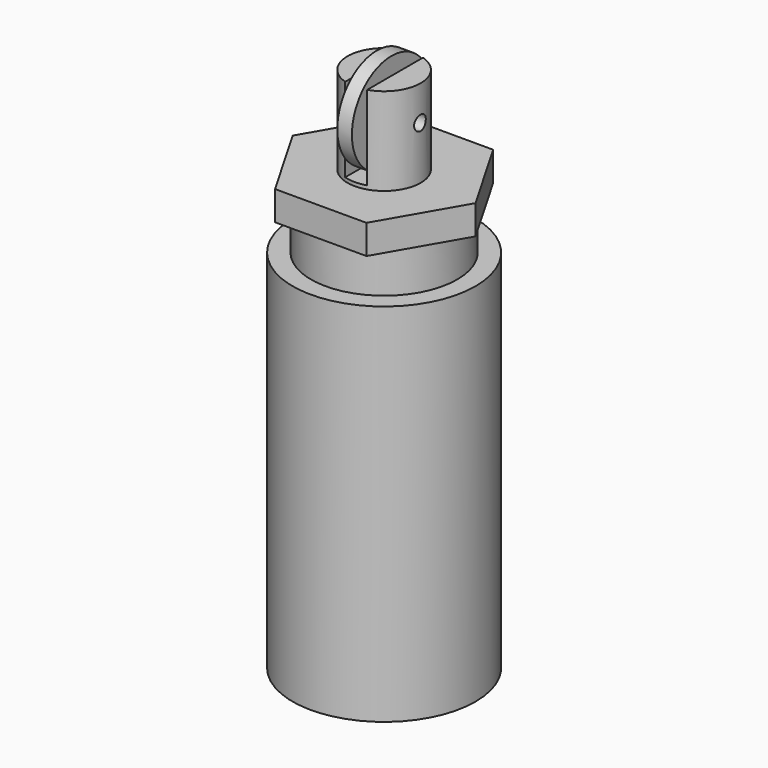
from build123d import *

# Parameters (mm, degrees)
F0_R           = 12.5
F1_DEPTH       = 50
F2_R           = 10
F3_DEPTH       = 10
F4_R           = 5
F5_DEPTH       = 12
F6_W           = 3
F6_H           = 11.5
F7_DEPTH       = 12.501
F7_DEPTH_BACK  = 12.501
F8_R           = 1
F9_DEPTH       = 14.001
F9_DEPTH_BACK  = 11.001
F11_DEPTH      = 4
F12_R          = 6.75
F13_DEPTH      = 1
F13_DEPTH_BACK = 1


with BuildPart() as f1:
    # F0 (on Top) → F1 (new body)
    with BuildSketch(Plane.XY):
        Circle(F0_R)
    extrude(amount=-F1_DEPTH)

    # F2 (on Top) → F3 (join)
    with BuildSketch(Plane.XY):
        Circle(F2_R)
    extrude(amount=F3_DEPTH)

    # F4 (on face) → F5 (join)
    with BuildSketch(Plane.XY.offset(10)):
        Circle(F4_R)
    extrude(amount=F5_DEPTH)

    # F6 (on Front) → F7 (cut, two sides)
    with BuildSketch(Plane.XZ) as f7_sk:
        with Locations((0, 16.25)):
            Rectangle(F6_W, F6_H)
    extrude(amount=-F7_DEPTH, mode=Mode.SUBTRACT)
    extrude(f7_sk.sketch, amount=F7_DEPTH_BACK, mode=Mode.SUBTRACT)

    # F8 (on face) → F9 (cut, two sides)
    with BuildSketch(Plane.YZ.offset(-1.5)) as f9_sk:
        with Locations((0, 17.2303039929)):
            Circle(F8_R)
    extrude(amount=F9_DEPTH, mode=Mode.SUBTRACT)
    extrude(f9_sk.sketch, amount=-F9_DEPTH_BACK, mode=Mode.SUBTRACT)

    # F10 (on face) → F11 (join)
    with BuildSketch(Plane.XY.offset(10)):
        Polygon((6.25, -10.8253175473), (12.5, 0), (6.25, 10.8253175473), (-6.25, 10.8253175473), (-12.5, 0), (-6.25, -10.8253175473), align=None)
    extrude(amount=-F11_DEPTH)

    # F12 (on Right) → F13 (join, two sides)
    with BuildSketch(Plane.YZ) as f13_sk:
        with Locations((0, 17.2303039929)):
            Circle(F12_R)
    extrude(amount=F13_DEPTH)
    extrude(f13_sk.sketch, amount=-F13_DEPTH_BACK)


solid = f1.part
